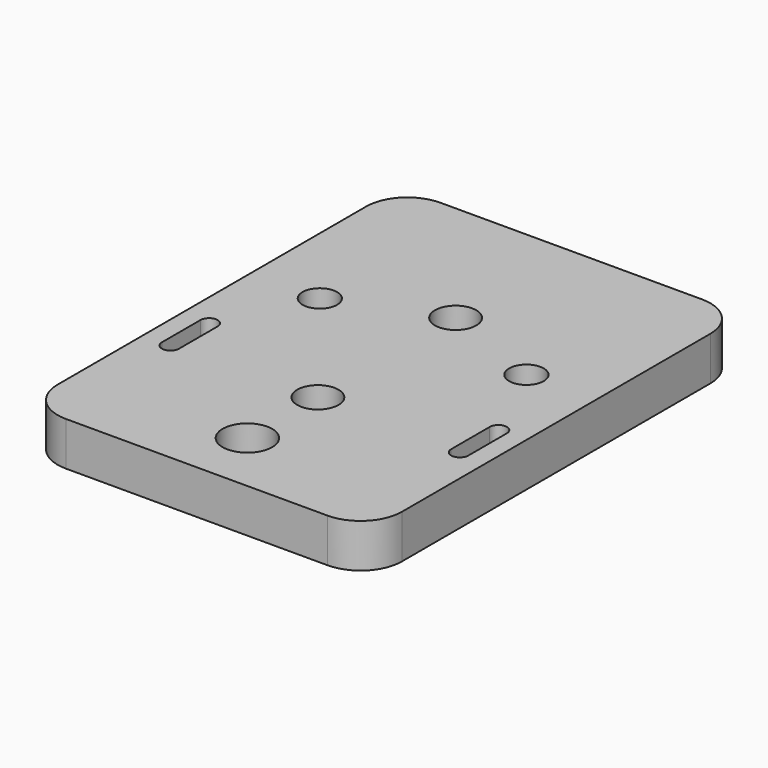
from build123d import *

# Parameters (mm, degrees)
F0_W     = 19.2
F0_H     = 68
F0_R     = 6
F0_R_2   = 3
F0_R_3   = 4.75
F0_R_4   = 3.6
F0_R_5   = 2.51
F0_W_2   = 2.745
F0_H_2   = 7
F1_DEPTH = 6.35


with BuildPart() as f1:
    # F0 (on Top) → F1 (new body)
    with BuildSketch(Plane.XY):
        Rectangle(F0_W, F0_H)
        with Locations((0, -24.8)):
            Circle(F0_R, mode=Mode.SUBTRACT)
        with Locations((0, -12)):
            Circle(F0_R_2, mode=Mode.SUBTRACT)
        with Locations((0, 13)):
            Circle(F0_R_2, mode=Mode.SUBTRACT)
        with BuildLine():
            Line((-25, -5.5), (-22.255, -5.5))
            ThreePointArc((-22.255, -5.5), (-21.005, -4.25), (-19.755, -5.5))
            Line((-19.755, -5.5), (-19.755, -12.5))
            ThreePointArc((-19.755, -12.5), (-21.005, -13.75), (-22.255, -12.5))
            Line((-22.255, -12.5), (-25, -12.5))
            Line((-25, -12.5), (-25, -28))
            ThreePointArc((-25, -28), (-23.242641, -32.242641), (-19, -34))
            Line((-19, -34), (-10, -34))
            Line((-10, -34), (-9.6, -34))
            Line((-9.6, -34), (-9.6, 34))
            Line((-9.6, 34), (-19, 34))
            ThreePointArc((-19, 34), (-23.242641, 32.242641), (-25, 28))
            Line((-25, 28), (-25, -5.5))
        make_face()
        with Locations((-15, 7.1)):
            Circle(F0_R_3, mode=Mode.SUBTRACT)
        with BuildLine():
            Line((19, 34), (9.6, 34))
            Line((9.6, 34), (9.6, -34))
            Line((9.6, -34), (19, -34))
            ThreePointArc((19, -34), (23.242641, -32.242641), (25, -28))
            Line((25, -28), (25, -12.5))
            Line((25, -12.5), (22.255, -12.5))
            ThreePointArc((22.255, -12.5), (21.005, -13.75), (19.755, -12.5))
            Line((19.755, -12.5), (19.755, -5.5))
            ThreePointArc((19.755, -5.5), (21.005, -4.25), (22.255, -5.5))
            Line((22.255, -5.5), (25, -5.5))
            Line((25, -5.5), (25, 28))
            ThreePointArc((25, 28), (23.242641, 32.242641), (19, 34))
        make_face()
        with Locations((15, 7.1)):
            Circle(F0_R_3, mode=Mode.SUBTRACT)
        with Locations((0, -24.8)):
            Circle(F0_R)
        with Locations((0, -24.8)):
            Circle(F0_R_4, mode=Mode.SUBTRACT)
        with Locations((15, 7.1)):
            Circle(F0_R_3)
        with Locations((15, 7.1)):
            Circle(F0_R_5, mode=Mode.SUBTRACT)
        with Locations((-15, 7.1)):
            Circle(F0_R_3)
        with Locations((-15, 7.1)):
            Circle(F0_R_5, mode=Mode.SUBTRACT)
        with Locations((-23.6275, -9)):
            Rectangle(F0_W_2, F0_H_2)
        with Locations((23.6275, -9)):
            Rectangle(F0_W_2, F0_H_2)
    extrude(amount=F1_DEPTH)


solid = f1.part
